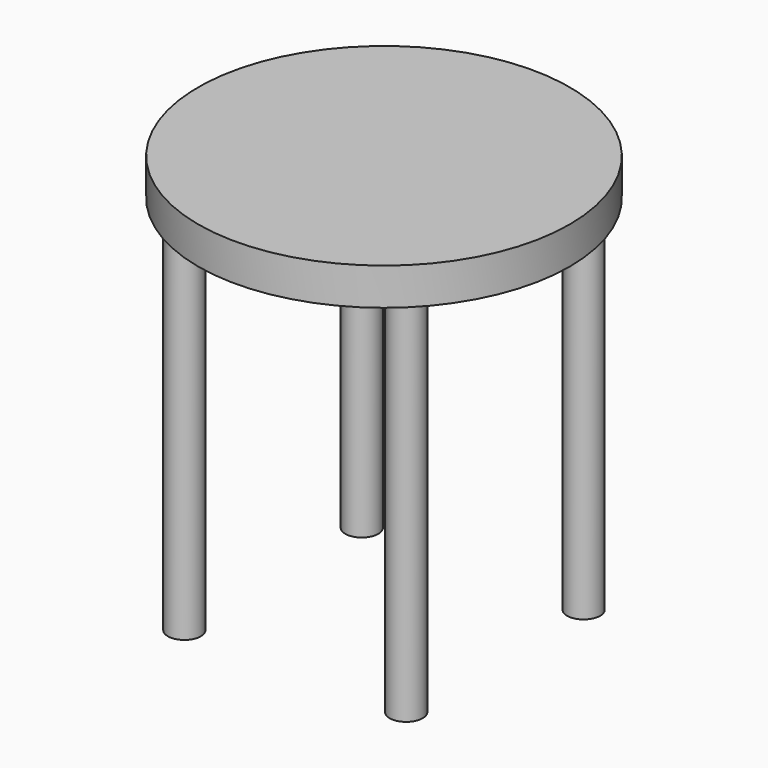
from build123d import *

# Parameters (mm, degrees)
F0_R     = 22.5
F0_R_2   = 2
F1_DEPTH = 4.5
F2_DEPTH = 45


with BuildPart() as f1:
    # F0 (on Top) → F1 (new body)
    with BuildSketch(Plane.XY):
        Circle(F0_R)
        with Locations((-13.435029, -13.435029)):
            Circle(F0_R_2, mode=Mode.SUBTRACT)
        with Locations((13.435029, -13.435029)):
            Circle(F0_R_2, mode=Mode.SUBTRACT)
        with Locations((-13.435029, 13.435029)):
            Circle(F0_R_2, mode=Mode.SUBTRACT)
        with Locations((13.435029, 13.435029)):
            Circle(F0_R_2, mode=Mode.SUBTRACT)
        with Locations((-13.435029, 13.435029)):
            Circle(F0_R_2)
        with Locations((13.435029, 13.435029)):
            Circle(F0_R_2)
        with Locations((-13.435029, -13.435029)):
            Circle(F0_R_2)
        with Locations((13.435029, -13.435029)):
            Circle(F0_R_2)
    extrude(amount=F1_DEPTH)


with BuildPart() as f2:
    # F0 (on Top) → F2 (new body)
    with BuildSketch(Plane.XY):
        with Locations((-13.435029, -13.435029)):
            Circle(F0_R_2)
        with Locations((13.435029, -13.435029)):
            Circle(F0_R_2)
        with Locations((-13.435029, 13.435029)):
            Circle(F0_R_2)
        with Locations((13.435029, 13.435029)):
            Circle(F0_R_2)
    extrude(amount=-F2_DEPTH)


solid = Compound([f1.part, f2.part])
